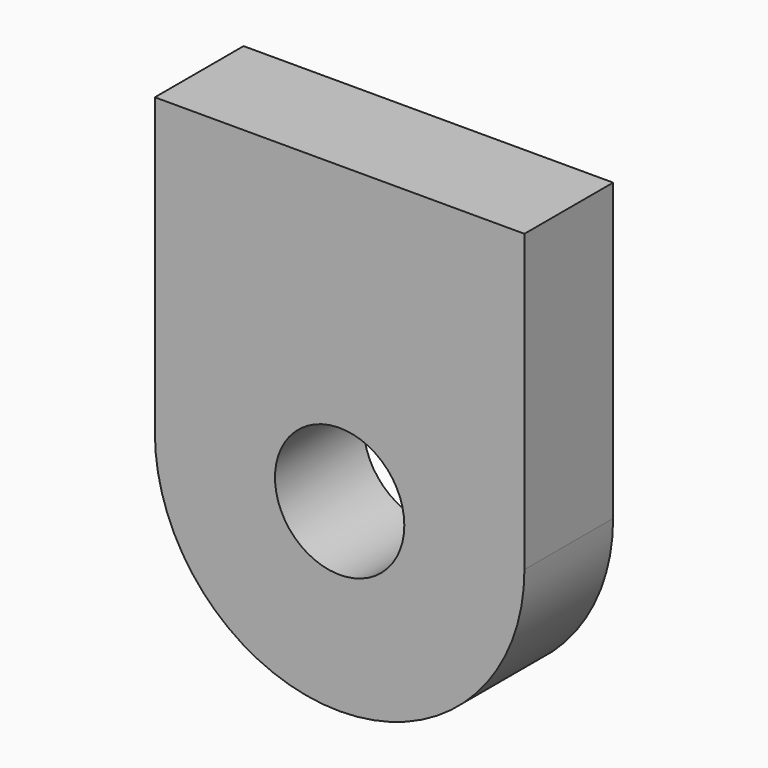
from build123d import *

# Parameters (mm, degrees)
F0_R     = 11.1125
F1_DEPTH = 19.05


with BuildPart() as f1:
    # F0 (on Front) → F1 (new body)
    with BuildSketch(Plane.XZ):
        with BuildLine():
            Line((31.75, 41.275), (-31.75, 41.275))
            Line((-31.75, 41.275), (-31.75, -9.525))
            ThreePointArc((-31.75, -9.525), (-22.45064, -31.97564), (0, -41.275))
            ThreePointArc((0, -41.275), (22.45064, -31.97564), (31.75, -9.525))
            Line((31.75, -9.525), (31.75, 41.275))
        make_face()
        with Locations((0, -9.525)):
            Circle(F0_R, mode=Mode.SUBTRACT)
    extrude(amount=F1_DEPTH)


solid = f1.part
